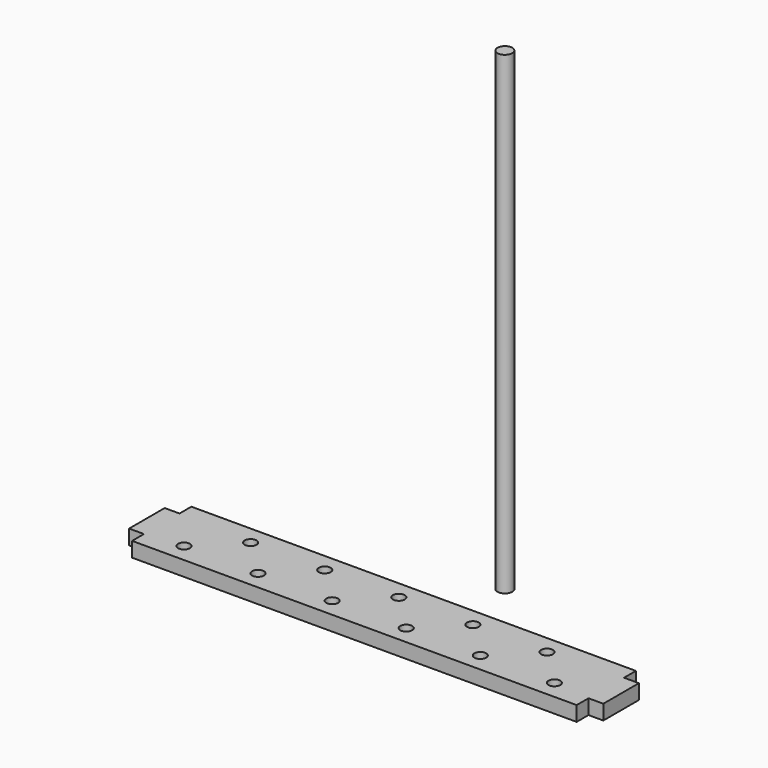
from build123d import *

# Parameters (mm, degrees)
F0_W     = 10
F0_H     = 30
F0_R     = 4
F1_DEPTH = 10
F2_R     = 5
F3_DEPTH = 320


with BuildPart() as f1:
    # F0 (on Top) → F1 (new body)
    with BuildSketch(Plane.XY):
        with Locations((155, 0)):
            Rectangle(F0_W, F0_H)
        with Locations((-155, 0)):
            Rectangle(F0_W, F0_H)
        Polygon((-150, -25), (150, -25), (150, -15), (150, 15), (150, 25), (-150, 25), (-150, 15), (-150, -15), align=None)
        with Locations((-125, -12.5)):
            Circle(F0_R, mode=Mode.SUBTRACT)
        with Locations((-75, -12.5)):
            Circle(F0_R, mode=Mode.SUBTRACT)
        with Locations((-25, -12.5)):
            Circle(F0_R, mode=Mode.SUBTRACT)
        with Locations((25, -12.5)):
            Circle(F0_R, mode=Mode.SUBTRACT)
        with Locations((75, -12.5)):
            Circle(F0_R, mode=Mode.SUBTRACT)
        with Locations((125, -12.5)):
            Circle(F0_R, mode=Mode.SUBTRACT)
        with Locations((-100, 12.5)):
            Circle(F0_R, mode=Mode.SUBTRACT)
        with Locations((-50, 12.5)):
            Circle(F0_R, mode=Mode.SUBTRACT)
        with Locations((0, 12.5)):
            Circle(F0_R, mode=Mode.SUBTRACT)
        with Locations((50, 12.5)):
            Circle(F0_R, mode=Mode.SUBTRACT)
        with Locations((100, 12.5)):
            Circle(F0_R, mode=Mode.SUBTRACT)
    extrude(amount=F1_DEPTH)


with BuildPart() as f3:
    # F2 (on Top) → F3 (new body)
    with BuildSketch(Plane.XY):
        with Locations((25.790736, 69.735847)):
            Circle(F2_R)
    extrude(amount=F3_DEPTH)


solid = Compound([f1.part, f3.part])
